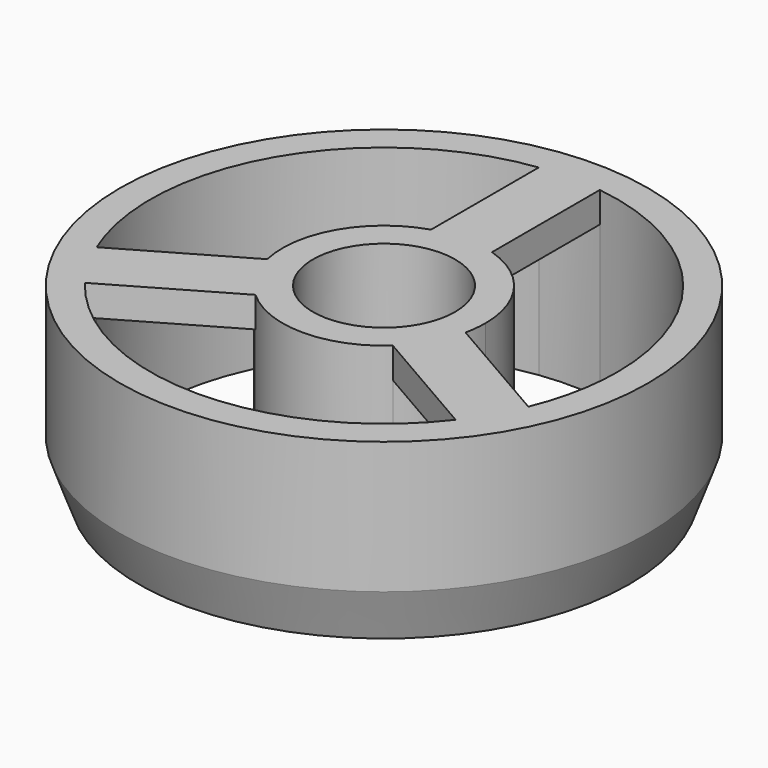
from build123d import *

# Parameters (mm, degrees)
F0_R     = 26
F0_R_2   = 7
F1_DEPTH = 3
F2_DEPTH = 15
F3_SIZE2 = 1.819851
F3_SIZE  = 5
F4_SIZE2 = 1.819851
F4_SIZE  = 5


with BuildPart() as f1:
    # F0 (on Top) → F1 (new body)
    with BuildSketch(Plane.XY):
        Circle(F0_R)
        with BuildLine():
            ThreePointArc((3, 22.803509), (17.291616, 15.165751), (23, 0))
            ThreePointArc((23, 0), (22.557855, -4.488117), (21.248418, -8.803678))
            ThreePointArc((21.248418, -8.803678), (19.918584, -11.5), (18.248418, -13.99983))
            ThreePointArc((18.248418, -13.99983), (0, -23), (-18.248418, -13.99983))
            ThreePointArc((-18.248418, -13.99983), (-19.918584, -11.5), (-21.248418, -8.803678))
            ThreePointArc((-21.248418, -8.803678), (-19.918584, 11.5), (-3, 22.803509))
            ThreePointArc((-3, 22.803509), (0, 23), (3, 22.803509))
        make_face(mode=Mode.SUBTRACT)
        with BuildLine():
            Line((-9.761356, -2.17162), (-21.248418, -8.803678))
            ThreePointArc((-21.248418, -8.803678), (-19.918584, -11.5), (-18.248418, -13.99983))
            Line((-18.248418, -13.99983), (-6.761356, -7.367772))
            ThreePointArc((-6.761356, -7.367772), (-8.660254, -5), (-9.761356, -2.17162))
        make_face()
        with BuildLine():
            ThreePointArc((10, 0), (8.062258, 5.91608), (3, 9.539392))
            ThreePointArc((3, 9.539392), (0, 10), (-3, 9.539392))
            ThreePointArc((-3, 9.539392), (-8.660254, 5), (-9.761356, -2.17162))
            ThreePointArc((-9.761356, -2.17162), (-8.660254, -5), (-6.761356, -7.367772))
            ThreePointArc((-6.761356, -7.367772), (0, -10), (6.761356, -7.367772))
            ThreePointArc((6.761356, -7.367772), (8.660254, -5), (9.761356, -2.17162))
            ThreePointArc((9.761356, -2.17162), (9.94016, -1.092347), (10, 0))
        make_face()
        Circle(F0_R_2, mode=Mode.SUBTRACT)
        with BuildLine():
            Line((3, 9.539392), (3, 22.803509))
            ThreePointArc((3, 22.803509), (0, 23), (-3, 22.803509))
            Line((-3, 22.803509), (-3, 9.539392))
            ThreePointArc((-3, 9.539392), (0, 10), (3, 9.539392))
        make_face()
        with BuildLine():
            ThreePointArc((18.248418, -13.99983), (19.918584, -11.5), (21.248418, -8.803678))
            Line((21.248418, -8.803678), (9.761356, -2.17162))
            ThreePointArc((9.761356, -2.17162), (8.660254, -5), (6.761356, -7.367772))
            Line((6.761356, -7.367772), (18.248418, -13.99983))
        make_face()
    extrude(amount=F1_DEPTH)

    # F0 (on Top) → F2 (join)
    with BuildSketch(Plane.XY):
        Circle(F0_R)
        with BuildLine():
            ThreePointArc((3, 22.803509), (17.291616, 15.165751), (23, 0))
            ThreePointArc((23, 0), (22.557855, -4.488117), (21.248418, -8.803678))
            ThreePointArc((21.248418, -8.803678), (19.918584, -11.5), (18.248418, -13.99983))
            ThreePointArc((18.248418, -13.99983), (0, -23), (-18.248418, -13.99983))
            ThreePointArc((-18.248418, -13.99983), (-19.918584, -11.5), (-21.248418, -8.803678))
            ThreePointArc((-21.248418, -8.803678), (-19.918584, 11.5), (-3, 22.803509))
            ThreePointArc((-3, 22.803509), (0, 23), (3, 22.803509))
        make_face(mode=Mode.SUBTRACT)
        with BuildLine():
            ThreePointArc((10, 0), (8.062258, 5.91608), (3, 9.539392))
            ThreePointArc((3, 9.539392), (0, 10), (-3, 9.539392))
            ThreePointArc((-3, 9.539392), (-8.660254, 5), (-9.761356, -2.17162))
            ThreePointArc((-9.761356, -2.17162), (-8.660254, -5), (-6.761356, -7.367772))
            ThreePointArc((-6.761356, -7.367772), (0, -10), (6.761356, -7.367772))
            ThreePointArc((6.761356, -7.367772), (8.660254, -5), (9.761356, -2.17162))
            ThreePointArc((9.761356, -2.17162), (9.94016, -1.092347), (10, 0))
        make_face()
        Circle(F0_R_2, mode=Mode.SUBTRACT)
    extrude(amount=-F2_DEPTH)

    # F3
    f3_edges = [f1.edges().sort_by_distance(p)[0] for p in [
        (-26, 0, -15),
    ]]
    chamfer(f3_edges, length=F3_SIZE, length2=F3_SIZE2)

    # F4
    f4_edges = [f1.edges().sort_by_distance(p)[0] for p in [
        (-7, 0, -15),
    ]]
    chamfer(f4_edges, length=F4_SIZE, length2=F4_SIZE2)


solid = f1.part
